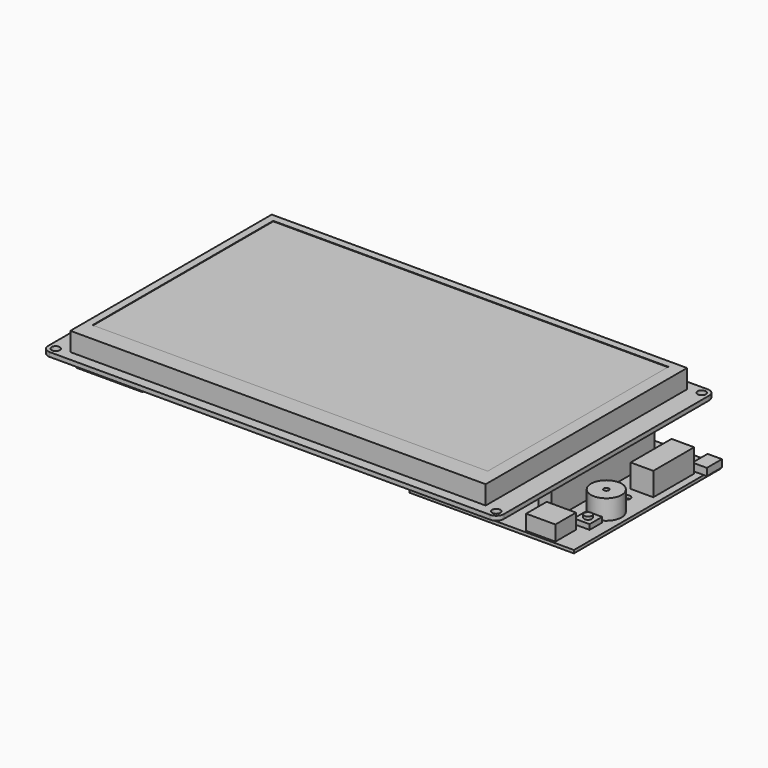
from build123d import *

# Parameters (mm, degrees)
F0_R      = 1.65
F0_W      = 165
F0_H      = 100
F1_DEPTH  = 1.7
F2_DEPTH  = 7.45
F3_W      = 157
F3_H      = 89.75
F4_DEPTH  = 0.2
F5_W      = 5
F5_H      = 51.16
F6_DEPTH  = 11.4
F5_W_2    = 26.4
F5_H_2    = 17
F7_DEPTH  = 3
F8_W      = 65.32
F8_H      = 73
F8_R      = 1.6
F8_W_2    = 5
F8_H_2    = 51.16
F9_DEPTH  = 1.2
F11_DEPTH = 6
F10_R     = 6.08
F10_R_2   = 1
F12_DEPTH = 7.85
F10_W     = 9
F10_H     = 20.3
F13_DEPTH = 9.25
F10_R_3   = 1.5
F14_DEPTH = 3.15
F10_W_2   = 6.25
F10_H_2   = 6.25
F15_DEPTH = 2
F10_W_3   = 1.2
F10_H_3   = 7.5
F10_W_4   = 4.5
F16_DEPTH = 2.9


with BuildPart() as f1:
    # F0 (on Top) → F1 (new body)
    with BuildSketch(Plane.XY):
        with BuildLine():
            Line((-87.5, -54), (87.5, -54))
            ThreePointArc((87.5, -54), (89.6213203436, -53.1213203436), (90.5, -51))
            Line((90.5, -51), (90.5, 51))
            ThreePointArc((90.5, 51), (89.6213203436, 53.1213203436), (87.5, 54))
            Line((87.5, 54), (-87.5, 54))
            ThreePointArc((-87.5, 54), (-89.6213203436, 53.1213203436), (-90.5, 51))
            Line((-90.5, 51), (-90.5, -51))
            ThreePointArc((-90.5, -51), (-89.6213203436, -53.1213203436), (-87.5, -54))
        make_face()
        with Locations((-87.5, -51)):
            Circle(F0_R, mode=Mode.SUBTRACT)
        with Locations((87.5, -51)):
            Circle(F0_R, mode=Mode.SUBTRACT)
        with Locations((-87.5, 51)):
            Circle(F0_R, mode=Mode.SUBTRACT)
        Rectangle(F0_W, F0_H, mode=Mode.SUBTRACT)
        with Locations((87.5, 51)):
            Circle(F0_R, mode=Mode.SUBTRACT)
        Rectangle(F0_W, F0_H)
    extrude(amount=-F1_DEPTH)

    # F0 (on Top) → F2 (join)
    with BuildSketch(Plane.XY):
        Rectangle(F0_W, F0_H)
    extrude(amount=F2_DEPTH)

    # F3 (on face) → F4 (cut)
    with BuildSketch(Plane.XY.offset(7.45)):
        with Locations((-1, 2.125)):
            Rectangle(F3_W, F3_H)
    extrude(amount=-F4_DEPTH, mode=Mode.SUBTRACT)

    # F5 (on face) → F6 (join)
    with BuildSketch(Plane(origin=(0, 0, -1.7), x_dir=(1, 0, 0), z_dir=(0, 0, -1))):
        with Locations((86.5, -0.02)):
            Rectangle(F5_W, F5_H)
    extrude(amount=F6_DEPTH)

    # F5 (on face) → F7 (join)
    with BuildSketch(Plane(origin=(0, 0, -1.7), x_dir=(1, 0, 0), z_dir=(0, 0, -1))):
        with Locations((-67, 41.5)):
            Rectangle(F5_W_2, F5_H_2)
    extrude(amount=F7_DEPTH)

    # F8 (on face) → F9 (join)
    with BuildSketch(Plane(origin=(0, 0, -13.1), x_dir=(1, 0, 0), z_dir=(0, 0, -1))):
        with Locations((74.16, 0.1)):
            Rectangle(F8_W, F8_H)
        with Locations((46.5, -31.4)):
            Circle(F8_R, mode=Mode.SUBTRACT)
        with Locations((86.5, -0.02)):
            Rectangle(F8_W_2, F8_H_2, mode=Mode.SUBTRACT)
        with Locations((97.42, -1.15)):
            Circle(F8_R, mode=Mode.SUBTRACT)
        with Locations((46.5, 31.6)):
            Circle(F8_R, mode=Mode.SUBTRACT)
        with Locations((86.5, -0.02)):
            Rectangle(F8_W_2, F8_H_2)
    extrude(amount=F9_DEPTH)

    # F10 (on face) → F11 (join)
    with BuildSketch(Plane.XY.offset(-13.1)):
        Polygon((89, -25.56), (87.19, -25.56), (87.19, -35.79), (98.82, -35.79), (98.82, -25.56), align=None)
    extrude(amount=F11_DEPTH)

    # F10 (on face) → F12 (join)
    with BuildSketch(Plane.XY.offset(-13.1)):
        with Locations((98.6, -10.24)):
            Circle(F10_R)
        with Locations((98.6, -10.24)):
            Circle(F10_R_2, mode=Mode.SUBTRACT)
    extrude(amount=F12_DEPTH)

    # F10 (on face) → F13 (join)
    with BuildSketch(Plane.XY.offset(-13.1)):
        with Locations((99.42, 16.6)):
            Rectangle(F10_W, F10_H)
    extrude(amount=F13_DEPTH)

    # F10 (on face) → F14 (join)
    with BuildSketch(Plane.XY.offset(-13.1)):
        with Locations((94.325, 31.025)):
            Circle(F10_R_3)
        with Locations((99.045, -19.875)):
            Circle(F10_R_3)
    extrude(amount=F14_DEPTH)

    # F10 (on face) → F15 (join)
    with BuildSketch(Plane.XY.offset(-13.1)):
        with Locations((94.325, 31.025)):
            Rectangle(F10_W_2, F10_H_2)
        with Locations((94.325, 31.025)):
            Circle(F10_R_3, mode=Mode.SUBTRACT)
        with Locations((99.045, -19.875)):
            Rectangle(F10_W_2, F10_H_2)
        with Locations((99.045, -19.875)):
            Circle(F10_R_3, mode=Mode.SUBTRACT)
    extrude(amount=F15_DEPTH)

    # F10 (on face) → F16 (join)
    with BuildSketch(Plane.XY.offset(-13.1)):
        with Locations((107.42, 31.65)):
            Rectangle(F10_W_3, F10_H_3)
        with Locations((104.57, 31.65)):
            Rectangle(F10_W_4, F10_H_3)
    extrude(amount=F16_DEPTH)


solid = f1.part
